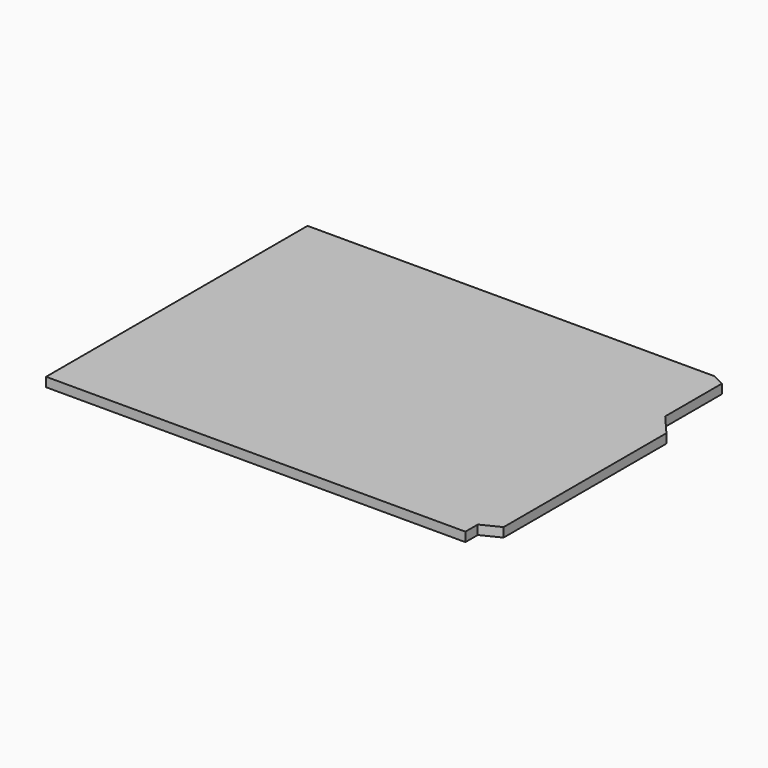
from build123d import *

# Parameters (mm, degrees)
F1_DEPTH = 1.5


with BuildPart() as f1:
    # F0 (on Top) → F1 (new body)
    with BuildSketch(Plane.XY):
        Polygon((0, 53), (0, 0), (68, 0), (68, 2.5), (68, 37), (68, 40.5), (68, 52), (66, 53), align=None)
        Polygon((68, 37), (68, 2.5), (71, 4), (71, 37), align=None)
        Polygon((68, 40.5), (68, 37), (71, 37), align=None)
    extrude(amount=F1_DEPTH)


solid = f1.part
